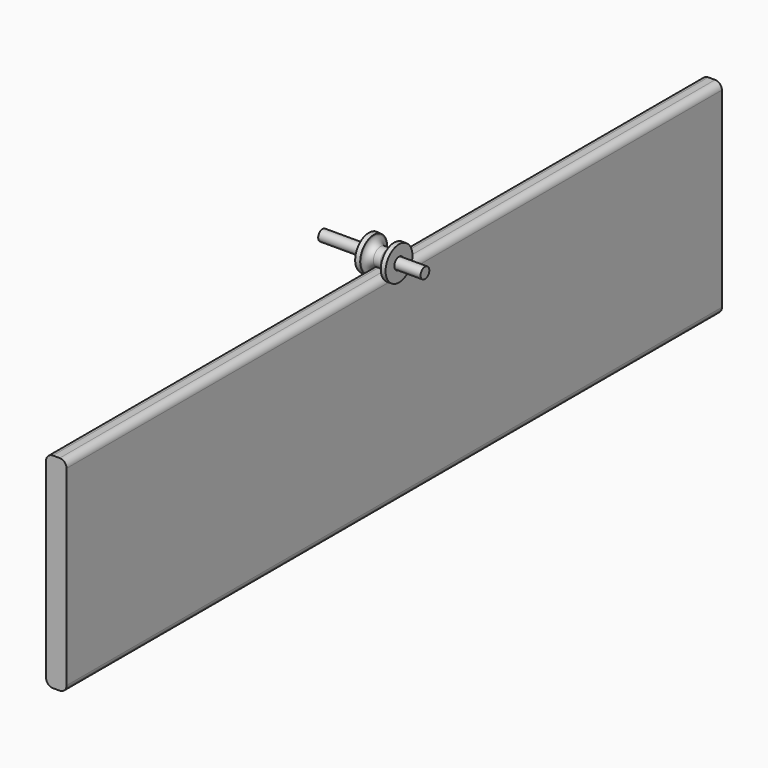
from build123d import *

# Parameters (mm, degrees)
F1_DEPTH = 300
F2_R     = 4
F3_DEPTH = 37.5


with BuildPart() as f1:
    # F0 (on Front) → F1 (new body, symmetric)
    with BuildSketch(Plane.XZ):
        with BuildLine():
            Line((-5, 75), (-10, 75))
            ThreePointArc((-10, 75), (-13.535534, 73.535534), (-15, 70))
            Line((-15, 70), (-15, -70))
            ThreePointArc((-15, -70), (-13.535534, -73.535534), (-10, -75))
            Line((-10, -75), (-5, -75))
            ThreePointArc((-5, -75), (-1.464466, -73.535534), (0, -70))
            Line((0, -70), (0, 70))
            ThreePointArc((0, 70), (-1.464466, 73.535534), (-5, 75))
        make_face()
    extrude(amount=F1_DEPTH, both=True)


with BuildPart() as f3:
    # F2 (on face) → F3 (new body, symmetric)
    with BuildSketch(Plane(origin=(-15, 0, 0), x_dir=(0, -1, 0), z_dir=(-1, 0, 0))):
        with Locations((0, 81.375323)):
            Circle(F2_R)
    extrude(amount=F3_DEPTH, both=True)


with BuildPart() as f5:
    # F4 (on Front) → F5 (revolve)
    with BuildSketch(Plane.XZ):
        with BuildLine():
            Line((-18.57931, 77.05894), (-18.57931, 68.825245))
            Line((-18.57931, 68.825245), (-15.07378, 69.05894))
            Line((-15.07378, 69.05894), (-15.07378, 69.901491))
            ThreePointArc((-15.07378, 69.901491), (-13.609314, 73.437025), (-10.07378, 74.901491))
            Line((-10.07378, 74.901491), (-5, 74.901491))
            ThreePointArc((-5, 74.901491), (-1.464466, 73.437025), (0, 69.901491))
            Line((0, 69.901491), (0, 69.05894))
            Line((0, 69.05894), (3.513311, 69.05894))
            Line((3.513311, 69.05894), (3.513311, 77.05894))
            Line((3.513311, 77.05894), (-18.57931, 77.05894))
        make_face()
    revolve(axis=Axis((-15, 0, 81.375323), (-1, 0, 0)))


solid = Compound([f1.part, f3.part, f5.part])
